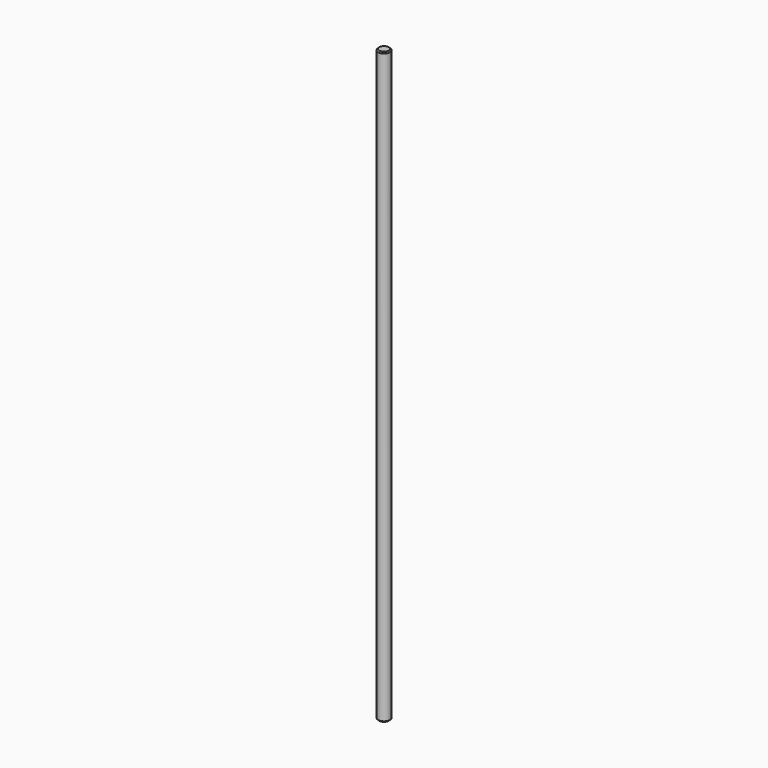
from build123d import *

# Parameters (mm, degrees)
SKETCH_R     = 5
PAD_DEPTH    = 500
CHAMFER_SIZE = 1


with BuildPart() as part:
    # Sketch → Pad (new body)
    with BuildSketch(Plane.XY):
        Circle(SKETCH_R)
    extrude(amount=PAD_DEPTH)

    # Chamfer
    chamfer_edges = [part.edges().sort_by_distance(p)[0] for p in [
        (-5, 0, 500),
        (-5, 0, 0),
    ]]
    chamfer(chamfer_edges, length=CHAMFER_SIZE)


solid = part.part
